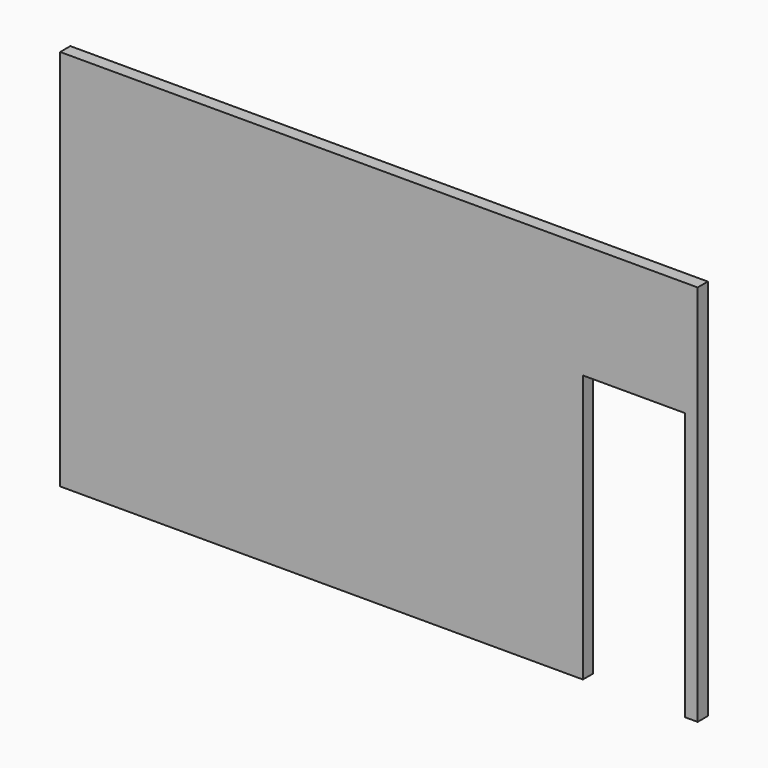
from build123d import *

# Parameters (mm, degrees)
F0_W     = 5000
F0_H     = 3000
F1_DEPTH = 50
F2_W     = 800
F2_H     = 2100
F3_DEPTH = 100.001


with BuildPart() as f1:
    # F0 (on Front) → F1 (new body, symmetric)
    with BuildSketch(Plane.XZ):
        with Locations((0, 1500)):
            Rectangle(F0_W, F0_H)
    extrude(amount=F1_DEPTH, both=True)

    # F2 (on face) → F3 (cut, through all)
    with BuildSketch(Plane.XZ.offset(50)):
        with Locations((2000, 1050)):
            Rectangle(F2_W, F2_H)
    extrude(amount=-F3_DEPTH, mode=Mode.SUBTRACT)


solid = f1.part
